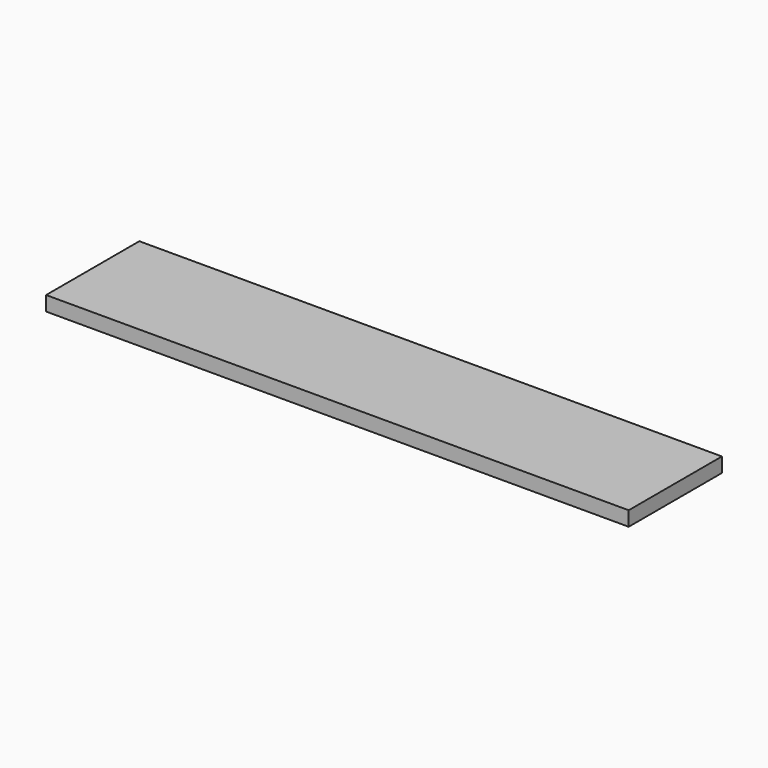
from build123d import *

# Parameters (mm, degrees)
SKETCH_W      = 200
SKETCH_H      = 40
EXTRUDE_DEPTH = 5


with BuildPart() as part:
    # Sketch → Extrude (new body)
    with BuildSketch(Plane.XY):
        with Locations((-2.110009, -0.826761)):
            Rectangle(SKETCH_W, SKETCH_H)
    extrude(amount=EXTRUDE_DEPTH)


solid = part.part
